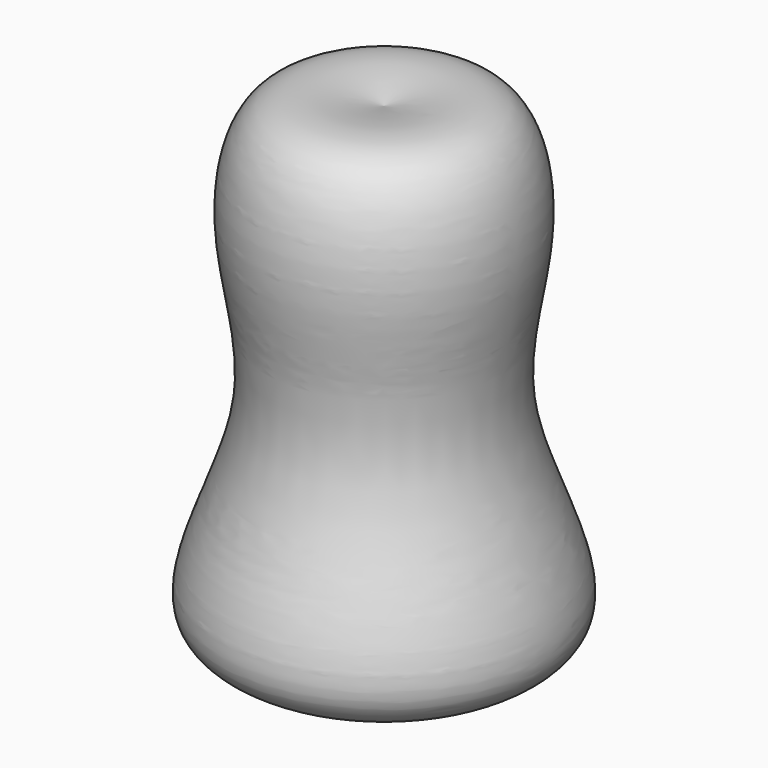
from build123d import *


with BuildPart() as f1:
    # F0 (on Front) → F1 (revolve)
    with BuildSketch(Plane.XZ):
        with BuildLine():
            Line((0, 76.1234164238), (0, 0))
            add(Edge.make_bspline(
                [(0, 0), (11.2398307782, 0.9868469048), (34.0016525459, 2.985314124), (13.3822471114, 35.3599686777), (22.3157106775, 58.027843565), (17.9441136903, 80.0232140421), (5.8800209589, 77.4013224897), (0, 76.1234164238)],
                knots=[0, 0, 0, 0, 0.217554692, 0.4405707899, 0.656229991, 0.8324470059, 1, 1, 1, 1], degree=3))
        make_face()
    revolve(axis=Axis((0, 0, 38.0617082119), (0, 0, 1)))


solid = f1.part
